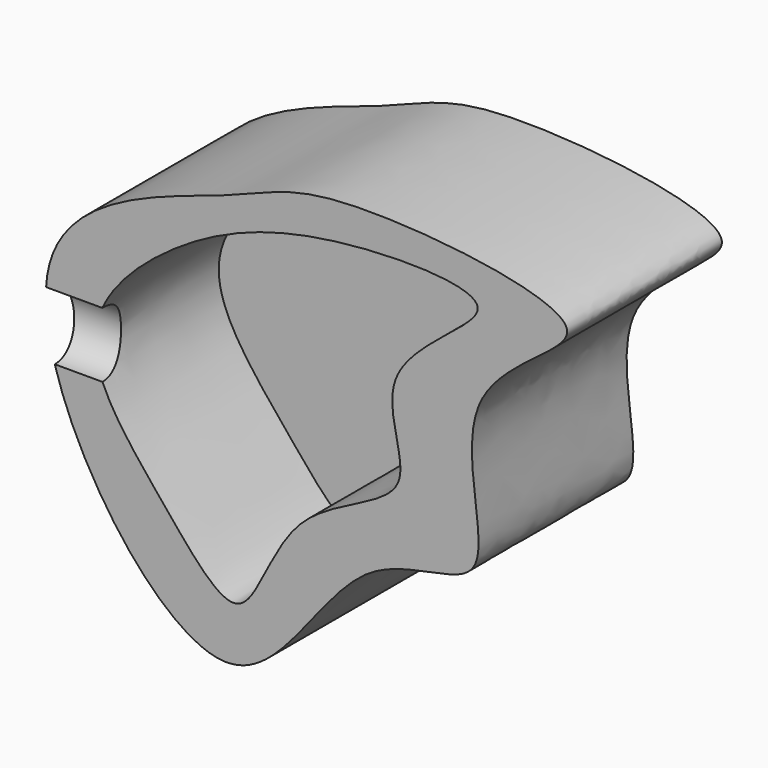
from build123d import *

# Parameters (mm, degrees)
F1_DEPTH = 25
F3_DEPTH = 20


with BuildPart() as f1:
    # F0 (on Front) → F1 (new body)
    with BuildSketch(Plane.XZ):
        with BuildLine():
            add(Edge.make_bspline(
                [(-44.2581288517, 63.5113567114), (-51.8467134092, 60.8204064771), (-81.6097227153, 53.6735548522), (-43.1070358907, -6.4523683948), (-28.923817549, 31.5820234103), (-6.2801172291, 27.3054241082), (-18.0767479493, 52.9670255805), (12.7325549955, 64.6494668765), (-32.6282862724, 69.6795930443), (-38.5167649638, 65.5472732097), (-44.2581288517, 63.5113567114)],
                knots=[0, 0, 0, 0, 0.1372655718, 0.3083459401, 0.4380436804, 0.5372115073, 0.6506059694, 0.7554827576, 0.8961477479, 1, 1, 1, 1], degree=3))
        make_face()
    extrude(amount=F1_DEPTH)

    # F2 (on face) → F3 (cut)
    with BuildSketch(Plane.XZ.offset(25)):
        with BuildLine():
            add(Edge.make_bspline(
                [(-50.7576204836, 55.3069412708), (-55.9589024141, 51.7268278727), (-65.8362158936, 41.8634008725), (-52.4345973727, 26.4613159681), (-41.2464932562, 12.1382330916), (-36.9055447723, 32.4166166835), (-16.9868937238, 35.8429625945), (-27.4203819257, 51.2008596618), (-2.4682437894, 63.4623118353), (-32.3144347976, 64.1875957811), (-44.6911201119, 59.4825963403), (-50.7576204836, 55.3069412708)],
                knots=[0, 0, 0, 0, 0.1141531809, 0.2342261694, 0.3317004583, 0.436745418, 0.5455093494, 0.6413367953, 0.7500806834, 0.8668577624, 1, 1, 1, 1], degree=3))
        make_face()
    extrude(amount=-F3_DEPTH, mode=Mode.SUBTRACT)

    # F4 (on face) → F5 (revolve, cut)
    with BuildSketch(Plane.XZ.offset(25)):
        with BuildLine():
            Line((-67.3154102207, 45.5590970814), (-71.0824206471, 45.5590970814))
            Line((-71.0824206471, 45.5590970814), (-71.0824206471, 41.3531400263))
            Line((-71.0824206471, 41.3531400263), (-67.1080495074, 41.3531400263))
            add(Edge.make_bspline(
                [(-67.3154102207, 45.5590970814), (-67.3943998986, 44.2337927595), (-67.3183541114, 42.8215634153), (-67.1080495074, 41.3531400263)],
                knots=[0.1456189624, 0.1456189624, 0.1456189624, 0.1456189624, 0.1622520385, 0.1622520385, 0.1622520385, 0.1622520385], degree=3))
        make_face()
        with BuildLine():
            Line((-60.0497579346, 45.5590970814), (-67.3154102207, 45.5590970814))
            add(Edge.make_bspline(
                [(-67.3154102207, 45.5590970814), (-67.3943998986, 44.2337927595), (-67.3183541114, 42.8215634153), (-67.1080495074, 41.3531400263)],
                knots=[0.1456189624, 0.1456189624, 0.1456189624, 0.1456189624, 0.1622520385, 0.1622520385, 0.1622520385, 0.1622520385], degree=3))
            Line((-67.1080495074, 41.3531400263), (-60.9993540401, 41.3531400263))
            add(Edge.make_bspline(
                [(-60.0497579346, 45.5590970814), (-60.6027546362, 44.3547990921), (-60.9847211087, 42.9501486458), (-61.0023977629, 41.5264261437), (-60.9993540401, 41.3531400263)],
                knots=[0.0859139992, 0.0859139992, 0.0859139992, 0.0859139992, 0.1141531809, 0.1180596953, 0.1180596953, 0.1180596953, 0.1180596953], degree=3))
        make_face()
        with BuildLine():
            Line((-57.0449307561, 45.5590970814), (-60.0497579346, 45.5590970814))
            add(Edge.make_bspline(
                [(-60.0497579346, 45.5590970814), (-60.6027546362, 44.3547990921), (-60.9847211087, 42.9501486458), (-61.0023977629, 41.5264261437), (-60.9993540401, 41.3531400263)],
                knots=[0.0859139992, 0.0859139992, 0.0859139992, 0.0859139992, 0.1141531809, 0.1180596953, 0.1180596953, 0.1180596953, 0.1180596953], degree=3))
            Line((-60.9993540401, 41.3531400263), (-57.0449307561, 41.3531400263))
            Line((-57.0449307561, 41.3531400263), (-57.0449307561, 45.5590970814))
        make_face()
    revolve(axis=Axis((-64.0636757016, -25, 41.3531400263), (1, 0, 0)), mode=Mode.SUBTRACT)


solid = f1.part
